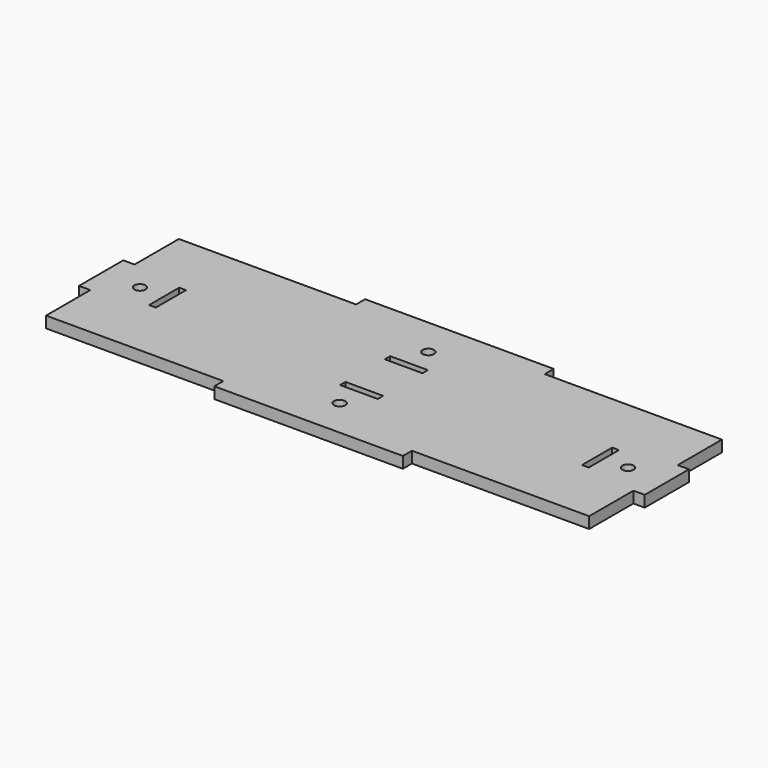
from build123d import *

# Parameters (mm, degrees)
F0_R     = 1.5
F0_W     = 10
F0_H     = 1.8
F0_W_2   = 1.8
F0_H_2   = 10
F1_DEPTH = 3


with BuildPart() as f1:
    # F0 (on Top) → F1 (new body)
    with BuildSketch(Plane.XY):
        Polygon((-25, 22), (-72, 22), (-72, 7.333333), (-75, 7.333333), (-75, -7.333333), (-72, -7.333333), (-72, -22), (-25, -22), (-25, -25), (25, -25), (25, -22), (72, -22), (72, -7.333333), (75, -7.333333), (75, 7.333333), (72, 7.333333), (72, 22), (25, 22), (25, 25), (-25, 25), align=None)
        with Locations((0, -14.7)):
            Circle(F0_R, mode=Mode.SUBTRACT)
        with Locations((0, -7.4)):
            Rectangle(F0_W, F0_H, mode=Mode.SUBTRACT)
        with Locations((-64.7, 0)):
            Circle(F0_R, mode=Mode.SUBTRACT)
        with Locations((-57.4, 0)):
            Rectangle(F0_W_2, F0_H_2, mode=Mode.SUBTRACT)
        with Locations((0, 7.4)):
            Rectangle(F0_W, F0_H, mode=Mode.SUBTRACT)
        with Locations((57.4, 0)):
            Rectangle(F0_W_2, F0_H_2, mode=Mode.SUBTRACT)
        with Locations((64.7, 0)):
            Circle(F0_R, mode=Mode.SUBTRACT)
        with Locations((0, 14.7)):
            Circle(F0_R, mode=Mode.SUBTRACT)
    extrude(amount=F1_DEPTH)


solid = f1.part
